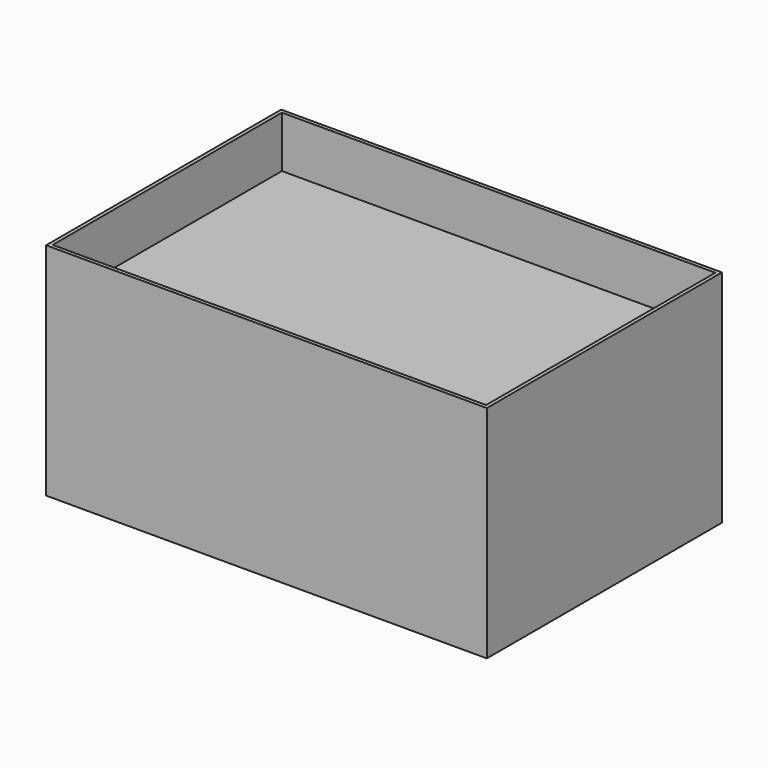
from build123d import *

# Parameters (mm, degrees)
F0_W     = 600
F0_H     = 400
F1_DEPTH = 300
F2_T     = -5
F3_W     = 590
F3_H     = 390
F4_DEPTH = 225


with BuildPart() as f1:
    # F0 (on Top) → F1 (new body)
    with BuildSketch(Plane.XY):
        Rectangle(F0_W, F0_H)
    extrude(amount=F1_DEPTH)

    # F2
    f2_openings = [f1.faces().sort_by_distance(p)[0] for p in [
        (0, 0, 300),
    ]]
    offset(amount=F2_T, openings=f2_openings)


with BuildPart() as f4:
    # F3 (on face) → F4 (new body)
    with BuildSketch(Plane.XY.offset(5)):
        Rectangle(F3_W, F3_H)
    extrude(amount=F4_DEPTH)


solid = Compound([f1.part, f4.part])
